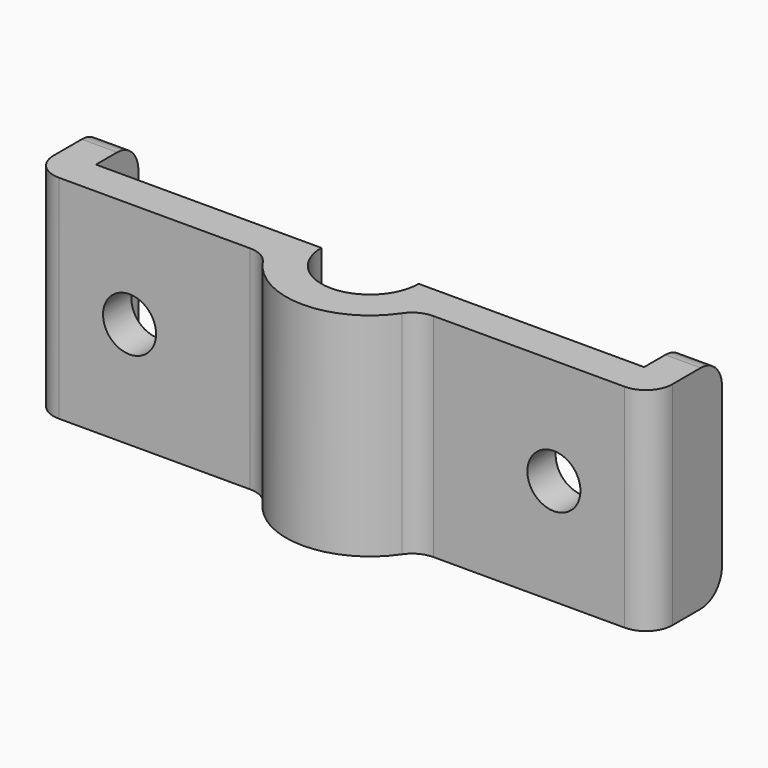
from build123d import *

# Parameters (mm, degrees)
F1_DEPTH = 76.2
F2_R     = 9.525
F5_DEPTH = 25.4


with BuildPart() as f1:
    # F0 (on Top) → F1 (new body)
    with BuildSketch(Plane.XY):
        with BuildLine():
            Line((0, -31.75), (0, 0))
            Line((0, 0), (-12.7, 0))
            Line((-12.7, 0), (-12.7, -19.05))
            Line((-12.7, -19.05), (-80.9625, -19.05))
            ThreePointArc((-80.9625, -19.05), (-81.671846117, -25.552932615), (-83.7665203959, -31.75))
            Line((-83.7665203959, -31.75), (0, -31.75))
        make_face()
        with BuildLine():
            Line((-222.25, -31.75), (-138.4834796041, -31.75))
            ThreePointArc((-138.4834796041, -31.75), (-140.578153883, -25.552932615), (-141.2875, -19.05))
            Line((-141.2875, -19.05), (-209.55, -19.05))
            Line((-209.55, -19.05), (-209.55, 0))
            Line((-209.55, 0), (-222.25, 0))
            Line((-222.25, 0), (-222.25, -31.75))
        make_face()
        with BuildLine():
            ThreePointArc((-138.4834796041, -31.75), (-111.125, -49.2125), (-83.7665203959, -31.75))
            Line((-83.7665203959, -31.75), (-99.139637834, -31.75))
            ThreePointArc((-99.139637834, -31.75), (-111.125, -36.5125), (-123.110362166, -31.75))
            Line((-123.110362166, -31.75), (-138.4834796041, -31.75))
        make_face()
        with BuildLine():
            ThreePointArc((-141.2875, -19.05), (-140.578153883, -25.552932615), (-138.4834796041, -31.75))
            Line((-138.4834796041, -31.75), (-123.110362166, -31.75))
            ThreePointArc((-123.110362166, -31.75), (-127.1598572347, -25.9653640333), (-128.5875, -19.05))
            Line((-128.5875, -19.05), (-141.2875, -19.05))
        make_face()
        with BuildLine():
            Line((-99.139637834, -31.75), (-83.7665203959, -31.75))
            ThreePointArc((-83.7665203959, -31.75), (-81.671846117, -25.552932615), (-80.9625, -19.05))
            Line((-80.9625, -19.05), (-93.6625, -19.05))
            ThreePointArc((-93.6625, -19.05), (-95.0901427653, -25.9653640333), (-99.139637834, -31.75))
        make_face()
    extrude(amount=F1_DEPTH)

    # F2
    f2_edges = [f1.edges().sort_by_distance(p)[0] for p in [
        (-6.35, 0, 0),
        (-6.35, 0, 76.2),
        (-215.9, 0, 76.2),
        (-215.9, 0, 0),
        (0, -31.75, 38.1),
        (-222.25, -31.75, 38.1),
        (-83.76652, -31.75, 38.1),
        (-138.48348, -31.75, 38.1),
    ]]
    fillet(f2_edges, radius=F2_R)

    # F4 (on face) + F3 (on face) → F5 (cut)
    with BuildSketch(Plane.XZ.offset(31.75)):
        with BuildLine():
            ThreePointArc((-25.4121996562, 38.1), (-28.2020075654, 44.8351920908), (-34.9371996562, 47.625))
            Line((-34.9371996562, 47.625), (-34.9371996562, 38.1))
            Line((-34.9371996562, 38.1), (-34.9371996562, 28.575))
            ThreePointArc((-34.9371996562, 28.575), (-28.2020075654, 31.3648079092), (-25.4121996562, 38.1))
        make_face()
        with BuildLine():
            Line((-34.9371996562, 38.1), (-34.9371996562, 47.625))
            ThreePointArc((-34.9371996562, 47.625), (-44.4621996562, 38.1), (-34.9371996562, 28.575))
            Line((-34.9371996562, 28.575), (-34.9371996562, 38.1))
        make_face()
    with BuildSketch(Plane.XZ.offset(31.75)):
        with BuildLine():
            ThreePointArc((-177.7878003438, 38.1), (-180.577608253, 44.8351920908), (-187.3128003438, 47.625))
            Line((-187.3128003438, 47.625), (-187.3128003438, 38.1))
            Line((-187.3128003438, 38.1), (-187.3128003438, 28.575))
            ThreePointArc((-187.3128003438, 28.575), (-180.577608253, 31.3648079092), (-177.7878003438, 38.1))
        make_face()
        with BuildLine():
            Line((-187.3128003438, 38.1), (-187.3128003438, 47.625))
            ThreePointArc((-187.3128003438, 47.625), (-196.8378003438, 38.1), (-187.3128003438, 28.575))
            Line((-187.3128003438, 28.575), (-187.3128003438, 38.1))
        make_face()
    extrude(amount=-F5_DEPTH, mode=Mode.SUBTRACT)


solid = f1.part
